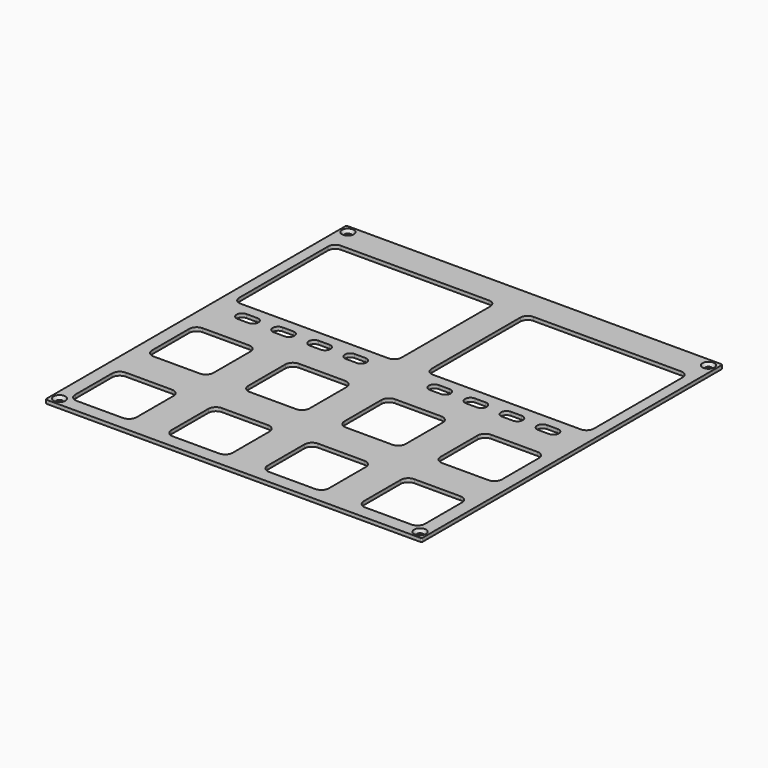
from build123d import *

# Parameters (mm, degrees)
PAD_DEPTH        = 1
POCKET_DEPTH     = 0.001
HOLE_D           = 1.75
HOLE_CSINK_D     = 3.3
HOLE_CSINK_ANGLE = 90
POCKET008_DEPTH  = 1.001
POCKET010_DEPTH  = 5
POCKET011_DEPTH  = 1.001


with BuildPart() as part:
    # Sketch → Pad (new body)
    with BuildSketch(Plane.XY):
        with BuildLine():
            Line((-51.8, 52.175), (51.8, 52.175))
            ThreePointArc((52.175, 51.8), (52.065165, 52.065165), (51.8, 52.175))
            Line((52.175, 51.8), (52.175, -51.8))
            ThreePointArc((51.8, -52.175), (52.065165, -52.065165), (52.175, -51.8))
            Line((51.8, -52.175), (-51.8, -52.175))
            ThreePointArc((-52.175, -51.8), (-52.065165, -52.065165), (-51.8, -52.175))
            Line((-52.175, -51.8), (-52.175, 51.8))
            ThreePointArc((-51.8, 52.175), (-52.065165, 52.065165), (-52.175, 51.8))
        make_face()
    extrude(amount=-PAD_DEPTH)

    # Sketch002 → Pocket (cut, through all)
    with BuildSketch(Plane.XY.offset(-4.8)):
        with BuildLine():
            Line((-45, 50.175), (45, 50.175))
            ThreePointArc((45, 50.175), (45.353553, 50.321447), (45.5, 50.675))
            ThreePointArc((45.5, 50.675), (45.353553, 51.028553), (45, 51.175))
            Line((-45, 51.175), (45, 51.175))
            ThreePointArc((-45, 51.175), (-45.353553, 51.028553), (-45.5, 50.675))
            ThreePointArc((-45.5, 50.675), (-45.353553, 50.321447), (-45, 50.175))
        make_face()
        with BuildLine():
            Line((-45, -51.175), (45, -51.175))
            ThreePointArc((45, -51.175), (45.353553, -51.028553), (45.5, -50.675))
            ThreePointArc((45.5, -50.675), (45.353553, -50.321447), (45, -50.175))
            Line((-45, -50.175), (45, -50.175))
            ThreePointArc((-45, -50.175), (-45.353553, -50.321447), (-45.5, -50.675))
            ThreePointArc((-45.5, -50.675), (-45.353553, -51.028553), (-45, -51.175))
        make_face()
        with BuildLine():
            Line((51.175, -45), (51.175, 45))
            ThreePointArc((51.175, 45), (51.028553, 45.353553), (50.675, 45.5))
            ThreePointArc((50.675, 45.5), (50.321447, 45.353553), (50.175, 45))
            Line((50.175, -45), (50.175, 45))
            ThreePointArc((50.175, -45), (50.321447, -45.353553), (50.675, -45.5))
            ThreePointArc((50.675, -45.5), (51.028553, -45.353553), (51.175, -45))
        make_face()
        with BuildLine():
            Line((-50.175, -45), (-50.175, 45))
            ThreePointArc((-50.175, 45), (-50.321447, 45.353553), (-50.675, 45.5))
            ThreePointArc((-50.675, 45.5), (-51.028553, 45.353553), (-51.175, 45))
            Line((-51.175, -45), (-51.175, 45))
            ThreePointArc((-51.175, -45), (-51.028553, -45.353553), (-50.675, -45.5))
            ThreePointArc((-50.675, -45.5), (-50.321447, -45.353553), (-50.175, -45))
        make_face()
    extrude(amount=-POCKET_DEPTH, mode=Mode.SUBTRACT)

    # Hole (through all)
    with Locations(Plane.XY):
        with Locations((-50, 50), (50, 50), (50, -50), (-50, -50)):
            CounterSinkHole(HOLE_D / 2, HOLE_CSINK_D / 2, counter_sink_angle=HOLE_CSINK_ANGLE)

    # Sketch027 → Pocket008 (cut, through all)
    with BuildSketch(Plane.XY):
        with BuildLine():
            Line((-49.17, 11.27), (-49.17, 42.07))
            ThreePointArc((-47.17, 44.07), (-48.584214, 43.484214), (-49.17, 42.07))
            Line((-47.17, 44.07), (-6.17, 44.07))
            ThreePointArc((-4.17, 42.07), (-4.755786, 43.484214), (-6.17, 44.07))
            Line((-4.17, 42.07), (-4.17, 11.27))
            ThreePointArc((-6.17, 9.27), (-4.755786, 9.855786), (-4.17, 11.27))
            Line((-6.17, 9.27), (-47.17, 9.27))
            ThreePointArc((-49.17, 11.27), (-48.584214, 9.855786), (-47.17, 9.27))
        make_face()
        with BuildLine():
            Line((4.17, 11.27), (4.17, 42.07))
            ThreePointArc((6.17, 44.07), (4.755786, 43.484214), (4.17, 42.07))
            Line((6.17, 44.07), (47.17, 44.07))
            ThreePointArc((49.17, 42.07), (48.584214, 43.484214), (47.17, 44.07))
            Line((49.17, 42.07), (49.17, 11.27))
            ThreePointArc((47.17, 9.27), (48.584214, 9.855786), (49.17, 11.27))
            Line((47.17, 9.27), (6.17, 9.27))
            ThreePointArc((4.17, 11.27), (4.755786, 9.855786), (6.17, 9.27))
        make_face()
    extrude(amount=-POCKET008_DEPTH, mode=Mode.SUBTRACT)

    # Sketch029 → Pocket010 (cut)
    with BuildSketch(Plane.XY):
        with BuildLine():
            ThreePointArc((-33.17, 6.27), (-34.67, 4.77), (-33.17, 3.27))
            Line((-33.17, 3.27), (-30.17, 3.27))
            ThreePointArc((-30.17, 3.27), (-28.67, 4.77), (-30.17, 6.27))
            Line((-30.17, 6.27), (-33.17, 6.27))
        make_face()
        with BuildLine():
            ThreePointArc((-23.17, 6.27), (-24.67, 4.77), (-23.17, 3.27))
            Line((-23.17, 3.27), (-20.17, 3.27))
            ThreePointArc((-20.17, 3.27), (-18.67, 4.77), (-20.17, 6.27))
            Line((-20.17, 6.27), (-23.17, 6.27))
        make_face()
        with BuildLine():
            ThreePointArc((-13.17, 6.27), (-14.67, 4.77), (-13.17, 3.27))
            Line((-13.17, 3.27), (-10.17, 3.27))
            ThreePointArc((-10.17, 3.27), (-8.67, 4.77), (-10.17, 6.27))
            Line((-10.17, 6.27), (-13.17, 6.27))
        make_face()
        with BuildLine():
            ThreePointArc((-43.17, 6.27), (-44.67, 4.77), (-43.17, 3.27))
            Line((-43.17, 3.27), (-40.17, 3.27))
            ThreePointArc((-40.17, 3.27), (-38.67, 4.77), (-40.17, 6.27))
            Line((-40.17, 6.27), (-43.17, 6.27))
        make_face()
        with BuildLine():
            ThreePointArc((10.17, 6.27), (8.67, 4.77), (10.17, 3.27))
            Line((10.17, 3.27), (13.17, 3.27))
            ThreePointArc((13.17, 3.27), (14.67, 4.77), (13.17, 6.27))
            Line((13.17, 6.27), (10.17, 6.27))
        make_face()
        with BuildLine():
            ThreePointArc((20.17, 6.27), (18.67, 4.77), (20.17, 3.27))
            Line((20.17, 3.27), (23.17, 3.27))
            ThreePointArc((23.17, 3.27), (24.67, 4.77), (23.17, 6.27))
            Line((23.17, 6.27), (20.17, 6.27))
        make_face()
        with BuildLine():
            ThreePointArc((30.17, 6.27), (28.67, 4.77), (30.17, 3.27))
            Line((30.17, 3.27), (33.17, 3.27))
            ThreePointArc((33.17, 3.27), (34.67, 4.77), (33.17, 6.27))
            Line((33.17, 6.27), (30.17, 6.27))
        make_face()
        with BuildLine():
            ThreePointArc((40.17, 6.27), (38.67, 4.77), (40.17, 3.27))
            Line((40.17, 3.27), (43.17, 3.27))
            ThreePointArc((43.17, 3.27), (44.67, 4.77), (43.17, 6.27))
            Line((43.17, 6.27), (40.17, 6.27))
        make_face()
    extrude(amount=-POCKET010_DEPTH, mode=Mode.SUBTRACT)

    # Sketch030 → Pocket011 (cut, through all)
    with BuildSketch(Plane.XY):
        with BuildLine():
            Line((-48.505, -19.735), (-48.505, -6.935))
            ThreePointArc((-46.405, -4.835), (-47.889924, -5.450076), (-48.505, -6.935))
            Line((-46.405, -4.835), (-33.605, -4.835))
            ThreePointArc((-31.505, -6.935), (-32.120076, -5.450076), (-33.605, -4.835))
            Line((-31.505, -6.935), (-31.505, -19.735))
            ThreePointArc((-33.605, -21.835), (-32.120076, -21.219924), (-31.505, -19.735))
            Line((-33.605, -21.835), (-46.405, -21.835))
            ThreePointArc((-48.505, -19.735), (-47.889924, -21.219924), (-46.405, -21.835))
        make_face()
        with BuildLine():
            Line((-21.835, -19.735), (-21.835, -6.935))
            ThreePointArc((-19.735, -4.835), (-21.219924, -5.450076), (-21.835, -6.935))
            Line((-19.735, -4.835), (-6.935, -4.835))
            ThreePointArc((-4.835, -6.935), (-5.450076, -5.450076), (-6.935, -4.835))
            Line((-4.835, -6.935), (-4.835, -19.735))
            ThreePointArc((-6.935, -21.835), (-5.450076, -21.219924), (-4.835, -19.735))
            Line((-6.935, -21.835), (-19.735, -21.835))
            ThreePointArc((-21.835, -19.735), (-21.219924, -21.219924), (-19.735, -21.835))
        make_face()
        with BuildLine():
            Line((4.835, -19.735), (4.835, -6.935))
            ThreePointArc((6.935, -4.835), (5.450076, -5.450076), (4.835, -6.935))
            Line((6.935, -4.835), (19.735, -4.835))
            ThreePointArc((21.835, -6.935), (21.219924, -5.450076), (19.735, -4.835))
            Line((21.835, -6.935), (21.835, -19.735))
            ThreePointArc((19.735, -21.835), (21.219924, -21.219924), (21.835, -19.735))
            Line((19.735, -21.835), (6.935, -21.835))
            ThreePointArc((4.835, -19.735), (5.450076, -21.219924), (6.935, -21.835))
        make_face()
        with BuildLine():
            Line((31.505, -19.735), (31.505, -6.935))
            ThreePointArc((33.605, -4.835), (32.120076, -5.450076), (31.505, -6.935))
            Line((33.605, -4.835), (46.405, -4.835))
            ThreePointArc((48.505, -6.935), (47.889924, -5.450076), (46.405, -4.835))
            Line((48.505, -6.935), (48.505, -19.735))
            ThreePointArc((46.405, -21.835), (47.889924, -21.219924), (48.505, -19.735))
            Line((46.405, -21.835), (33.605, -21.835))
            ThreePointArc((31.505, -19.735), (32.120076, -21.219924), (33.605, -21.835))
        make_face()
        with BuildLine():
            Line((31.505, -46.405), (31.505, -33.605))
            ThreePointArc((33.605, -31.505), (32.120076, -32.120076), (31.505, -33.605))
            Line((33.605, -31.505), (46.405, -31.505))
            ThreePointArc((48.505, -33.605), (47.889924, -32.120076), (46.405, -31.505))
            Line((48.505, -33.605), (48.505, -46.405))
            ThreePointArc((46.405, -48.505), (47.889924, -47.889924), (48.505, -46.405))
            Line((46.405, -48.505), (33.605, -48.505))
            ThreePointArc((31.505, -46.405), (32.120076, -47.889924), (33.605, -48.505))
        make_face()
        with BuildLine():
            Line((4.835, -46.405), (4.835, -33.605))
            ThreePointArc((6.935, -31.505), (5.450076, -32.120076), (4.835, -33.605))
            Line((6.935, -31.505), (19.735, -31.505))
            ThreePointArc((21.835, -33.605), (21.219924, -32.120076), (19.735, -31.505))
            Line((21.835, -33.605), (21.835, -46.405))
            ThreePointArc((19.735, -48.505), (21.219924, -47.889924), (21.835, -46.405))
            Line((19.735, -48.505), (6.935, -48.505))
            ThreePointArc((4.835, -46.405), (5.450076, -47.889924), (6.935, -48.505))
        make_face()
        with BuildLine():
            Line((-21.835, -46.405), (-21.835, -33.605))
            ThreePointArc((-19.735, -31.505), (-21.219924, -32.120076), (-21.835, -33.605))
            Line((-19.735, -31.505), (-6.935, -31.505))
            ThreePointArc((-4.835, -33.605), (-5.450076, -32.120076), (-6.935, -31.505))
            Line((-4.835, -33.605), (-4.835, -46.405))
            ThreePointArc((-6.935, -48.505), (-5.450076, -47.889924), (-4.835, -46.405))
            Line((-6.935, -48.505), (-19.735, -48.505))
            ThreePointArc((-21.835, -46.405), (-21.219924, -47.889924), (-19.735, -48.505))
        make_face()
        with BuildLine():
            Line((-48.505, -46.405), (-48.505, -33.605))
            ThreePointArc((-46.405, -31.505), (-47.889924, -32.120076), (-48.505, -33.605))
            Line((-46.405, -31.505), (-33.605, -31.505))
            ThreePointArc((-31.505, -33.605), (-32.120076, -32.120076), (-33.605, -31.505))
            Line((-31.505, -33.605), (-31.505, -46.405))
            ThreePointArc((-33.605, -48.505), (-32.120076, -47.889924), (-31.505, -46.405))
            Line((-33.605, -48.505), (-46.405, -48.505))
            ThreePointArc((-48.505, -46.405), (-47.889924, -47.889924), (-46.405, -48.505))
        make_face()
    extrude(amount=-POCKET011_DEPTH, mode=Mode.SUBTRACT)


solid = part.part
